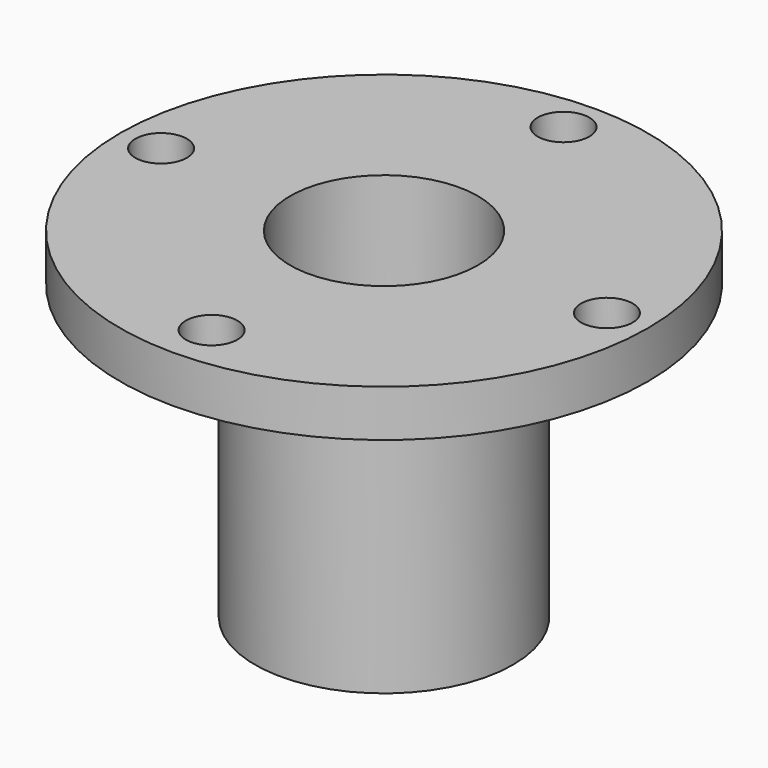
from build123d import *

# Parameters (mm, degrees)
F0_R     = 11
F0_R_2   = 8
F1_DEPTH = 25
F2_R     = 22.5
F2_R_2   = 11
F2_R_3   = 8
F3_DEPTH = 4
F5_D     = 4.4


with BuildPart() as f1:
    # F0 (on Top) → F1 (new body)
    with BuildSketch(Plane.XY):
        Circle(F0_R)
        Circle(F0_R_2, mode=Mode.SUBTRACT)
    extrude(amount=F1_DEPTH)

    # F2 (on face) → F3 (join)
    with BuildSketch(Plane.XY.offset(25)):
        Circle(F2_R)
        Circle(F2_R_2, mode=Mode.SUBTRACT)
        Circle(F2_R_2)
        Circle(F2_R_3, mode=Mode.SUBTRACT)
    extrude(amount=F3_DEPTH)

    # F5 (through all)
    with Locations(Plane.XY.offset(29)):
        with Locations((-19, 0), (0, 19.126665961), (19, 0), (0, -18.3666665865)):
            Hole(F5_D / 2)


solid = f1.part
